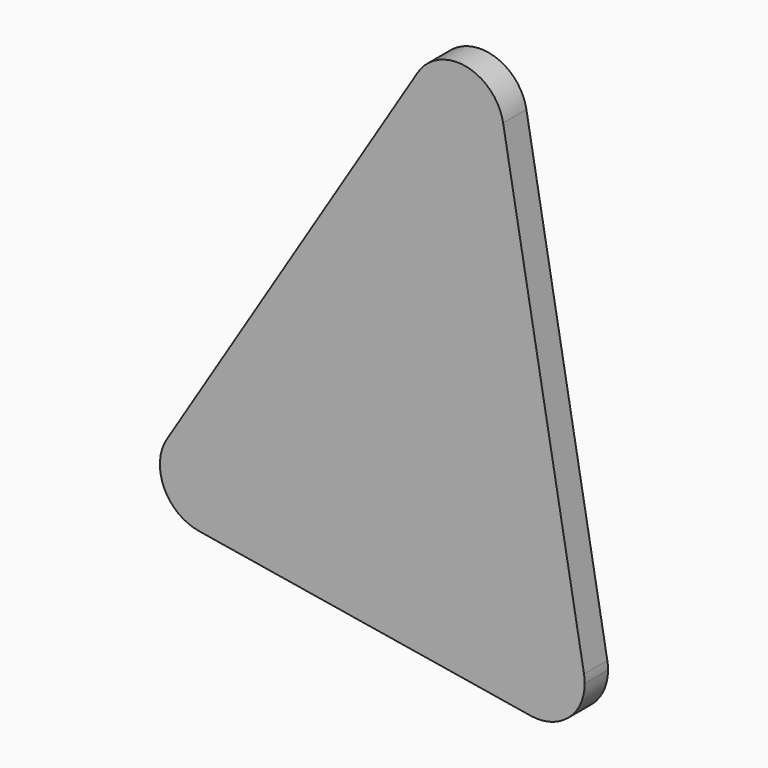
from build123d import *

# Parameters (mm, degrees)
F1_DEPTH = 5


with BuildPart() as f1:
    # F0 (on Front) → F1 (new body)
    with BuildSketch(Plane.XZ):
        with BuildLine():
            ThreePointArc((-6.797868, 4.217699), (2.192835, 7.693599), (8, 0))
            ThreePointArc((8, 0), (5.176145, -6.099797), (-1.301882, -7.893358))
            Line((-1.301882, -7.893358), (55.644045, -17.285668))
            ThreePointArc((55.644045, -17.285668), (51.257847, -3.766855), (64.824389, -8.003125))
            Line((64.824389, -8.003125), (50.932535, 70.781496))
            ThreePointArc((50.932535, 70.781496), (51.02363, 70.089556), (51.054073, 69.39231))
            ThreePointArc((51.054073, 69.39231), (40.861237, 61.698711), (36.256205, 73.61001))
            Line((36.256205, 73.61001), (-6.797868, 4.217699))
        make_face()
        with BuildLine():
            ThreePointArc((-1.301882, -7.893358), (5.176145, -6.099797), (8, 0))
            ThreePointArc((8, 0), (2.192835, 7.693599), (-6.797868, 4.217699))
            ThreePointArc((-6.797868, 4.217699), (-7.284979, -3.305916), (-1.301882, -7.893358))
        make_face()
        with BuildLine():
            ThreePointArc((64.824389, -8.003125), (51.257847, -3.766855), (55.644045, -17.285668))
            ThreePointArc((55.644045, -17.285668), (62.122072, -15.492107), (64.945927, -9.39231))
            ThreePointArc((64.945927, -9.39231), (64.915485, -8.695064), (64.824389, -8.003125))
        make_face()
        with BuildLine():
            ThreePointArc((50.932535, 70.781496), (44.568023, 77.247751), (36.256205, 73.61001))
            ThreePointArc((36.256205, 73.61001), (40.861237, 61.698711), (51.054073, 69.39231))
            ThreePointArc((51.054073, 69.39231), (51.02363, 70.089556), (50.932535, 70.781496))
        make_face()
    extrude(amount=F1_DEPTH)


solid = f1.part
